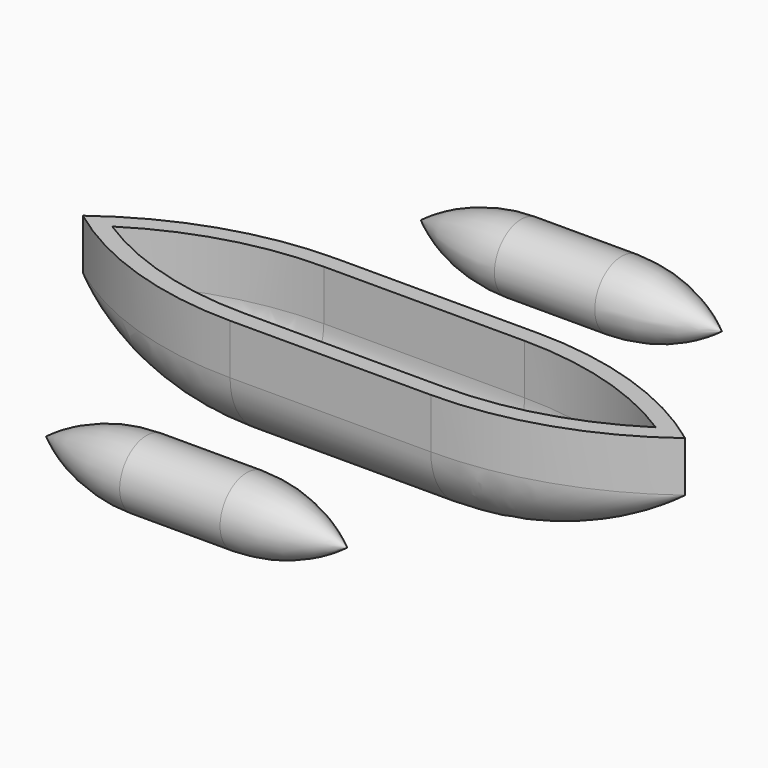
from build123d import *

# Parameters (mm, degrees)
F0_W     = 76.2
F0_H     = 6.35
F1_DEPTH = 19.05
F2_ANGLE = -180
F4_R     = 1.27
F5_DEPTH = 80.292889
F0_W_2   = 38.1


with BuildPart() as f1:
    # F0 (on Top) → F1 (new body)
    with BuildSketch(Plane.XY):
        with BuildLine():
            Line((-38.1, 19.05), (-38.1, 25.4))
            ThreePointArc((-38.1, 25.4), (-78.260926, 18.882779), (-114.3, 0))
            Line((-114.3, 0), (-103.168137, 0))
            ThreePointArc((-103.168137, 0), (-71.999723, 14.189599), (-38.1, 19.05))
        make_face()
        with Locations((0, 22.225)):
            Rectangle(F0_W, F0_H)
        with BuildLine():
            ThreePointArc((114.3, 0), (78.260926, 18.882779), (38.1, 25.4))
            Line((38.1, 25.4), (38.1, 19.05))
            ThreePointArc((38.1, 19.05), (71.999723, 14.189599), (103.168137, 0))
            Line((103.168137, 0), (114.3, 0))
        make_face()
        with BuildLine():
            ThreePointArc((38.1, -25.4), (78.260926, -18.882779), (114.3, 0))
            Line((114.3, 0), (103.168137, 0))
            ThreePointArc((103.168137, 0), (71.999723, -14.189599), (38.1, -19.05))
            Line((38.1, -19.05), (38.1, -25.4))
        make_face()
        with Locations((0, -22.225)):
            Rectangle(F0_W, F0_H)
        with BuildLine():
            Line((-103.168137, 0), (-114.3, 0))
            ThreePointArc((-114.3, 0), (-78.260926, -18.882779), (-38.1, -25.4))
            Line((-38.1, -25.4), (-38.1, -19.05))
            ThreePointArc((-38.1, -19.05), (-71.999723, -14.189599), (-103.168137, 0))
        make_face()
    extrude(amount=F1_DEPTH)

    # F0 (on Top) → F2 (revolve)
    with BuildSketch(Plane.XY):
        with Locations((0, -22.225)):
            Rectangle(F0_W, F0_H)
        with BuildLine():
            Line((-103.168137, 0), (-114.3, 0))
            ThreePointArc((-114.3, 0), (-78.260926, -18.882779), (-38.1, -25.4))
            Line((-38.1, -25.4), (-38.1, -19.05))
            ThreePointArc((-38.1, -19.05), (-71.999723, -14.189599), (-103.168137, 0))
        make_face()
        with BuildLine():
            ThreePointArc((38.1, -25.4), (78.260926, -18.882779), (114.3, 0))
            Line((114.3, 0), (103.168137, 0))
            ThreePointArc((103.168137, 0), (71.999723, -14.189599), (38.1, -19.05))
            Line((38.1, -19.05), (38.1, -25.4))
        make_face()
    revolve(axis=Axis((-76.2, 0, 0), (-1, 0, 0)), revolution_arc=F2_ANGLE)

    # F4 (on face) → F5 (cut, through all)
    with BuildSketch(Plane(origin=(-33.643147, 0, -12.245104), x_dir=(0, -1, 0), z_dir=(-0.939693, 0, -0.34202))):
        with Locations((0, 13.030967)):
            Circle(F4_R)
    extrude(amount=F5_DEPTH, mode=Mode.SUBTRACT)


with BuildPart() as f6:
    # F0 (on Top) → F6 (revolve)
    with BuildSketch(Plane.XY):
        with BuildLine():
            Line((-45.231721, 88.9), (-57.15, 88.9))
            ThreePointArc((-57.15, 88.9), (-39.130463, 79.458611), (-19.05, 76.2))
            Line((-19.05, 76.2), (-19.05, 82.55))
            ThreePointArc((-19.05, 82.55), (-32.520384, 84.160183), (-45.231721, 88.9))
        make_face()
        with Locations((0, 79.375)):
            Rectangle(F0_W_2, F0_H)
        with BuildLine():
            ThreePointArc((19.05, 76.2), (39.130463, 79.458611), (57.15, 88.9))
            Line((57.15, 88.9), (45.231721, 88.9))
            ThreePointArc((45.231721, 88.9), (32.520384, 84.160183), (19.05, 82.55))
            Line((19.05, 82.55), (19.05, 76.2))
        make_face()
    revolve(axis=Axis((38.1, 88.9, 0), (1, 0, 0)))


with BuildPart() as f7_1:
    # F7: instance of F6
    add(f6.part.mirror(Plane.XZ))


solid = Compound([f1.part, f6.part, f7_1.part])
